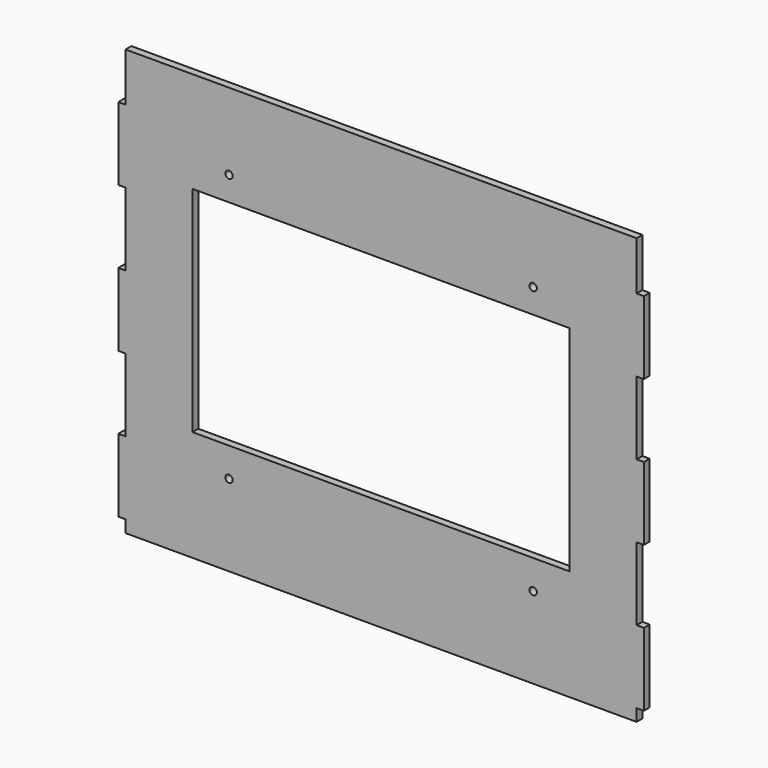
from build123d import *

# Parameters (mm, degrees)
F0_R     = 1.5
F0_W     = 155
F0_H     = 88
F0_W_2   = 3
F0_H_2   = 30
F1_DEPTH = 3


with BuildPart() as f1:
    # F0 (on Front) → F1 (new body)
    with BuildSketch(Plane.XZ):
        Polygon((105, 67.5), (105, 87.5), (-105, 87.5), (-105, 67.5), (-105, 37.5), (-105, 7.5), (-105, -22.5), (-105, -52.5), (-105, -82.5), (-105, -87.5), (105, -87.5), (105, -82.5), (105, -52.5), (105, -22.5), (105, 7.5), (105, 37.5), align=None)
        with Locations((-62.5, -54)):
            Circle(F0_R, mode=Mode.SUBTRACT)
        with Locations((62.5, -54)):
            Circle(F0_R, mode=Mode.SUBTRACT)
        with Locations((-62.5, 56)):
            Circle(F0_R, mode=Mode.SUBTRACT)
        with Locations((0, 2)):
            Rectangle(F0_W, F0_H, mode=Mode.SUBTRACT)
        with Locations((62.5, 56)):
            Circle(F0_R, mode=Mode.SUBTRACT)
        with Locations((106.5, 52.5)):
            Rectangle(F0_W_2, F0_H_2)
        with Locations((-106.5, 52.5)):
            Rectangle(F0_W_2, F0_H_2)
        with Locations((106.5, -7.5)):
            Rectangle(F0_W_2, F0_H_2)
        with Locations((-106.5, -7.5)):
            Rectangle(F0_W_2, F0_H_2)
        with Locations((106.5, -67.5)):
            Rectangle(F0_W_2, F0_H_2)
        with Locations((-106.5, -67.5)):
            Rectangle(F0_W_2, F0_H_2)
    extrude(amount=F1_DEPTH)


solid = f1.part
